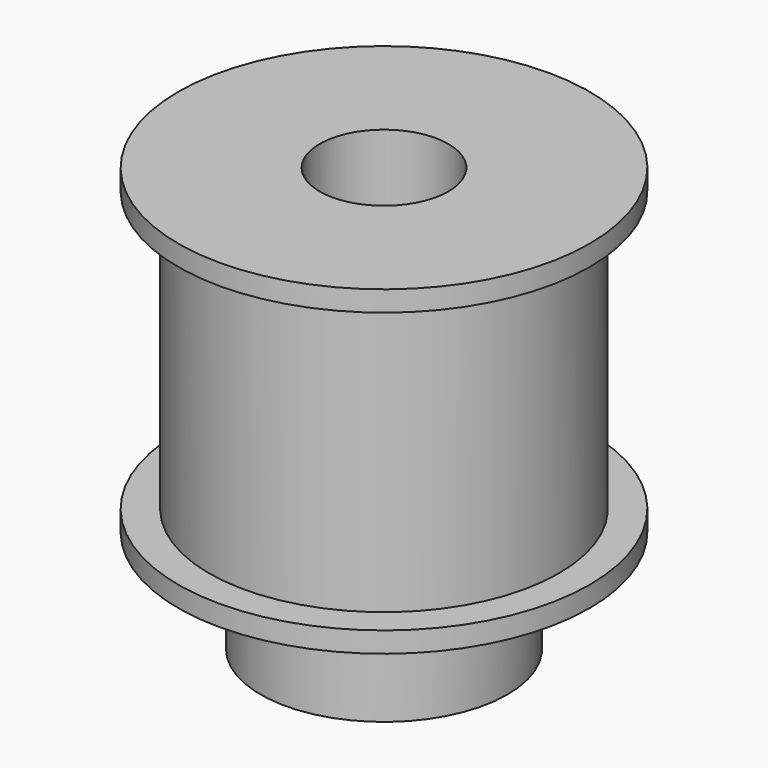
from build123d import *

# Parameters (mm, degrees)
F0_R     = 12.7
F0_R_2   = 10.795
F1_DEPTH = 1.27
F0_R_3   = 7.62
F0_R_4   = 3.9751
F2_DEPTH = 19.812
F3_R     = 12.7
F3_R_2   = 10.795
F4_DEPTH = 1.27
F5_DEPTH = 6.35


with BuildPart() as f1:
    # F0 (on Top) → F1 (new body)
    with BuildSketch(Plane.XY):
        Circle(F0_R)
        Circle(F0_R_2, mode=Mode.SUBTRACT)
    extrude(amount=F1_DEPTH)

    # F0 (on Top) → F2 (join)
    with BuildSketch(Plane.XY):
        Circle(F0_R_2)
        Circle(F0_R_3, mode=Mode.SUBTRACT)
        Circle(F0_R_3)
        Circle(F0_R_4, mode=Mode.SUBTRACT)
    extrude(amount=F2_DEPTH)

    # F3 (on face) → F4 (join)
    with BuildSketch(Plane.XY.offset(19.812)):
        Circle(F3_R)
        Circle(F3_R_2, mode=Mode.SUBTRACT)
    extrude(amount=-F4_DEPTH)

    # F0 (on Top) → F5 (join)
    with BuildSketch(Plane.XY):
        Circle(F0_R_3)
        Circle(F0_R_4, mode=Mode.SUBTRACT)
    extrude(amount=-F5_DEPTH)


solid = f1.part
